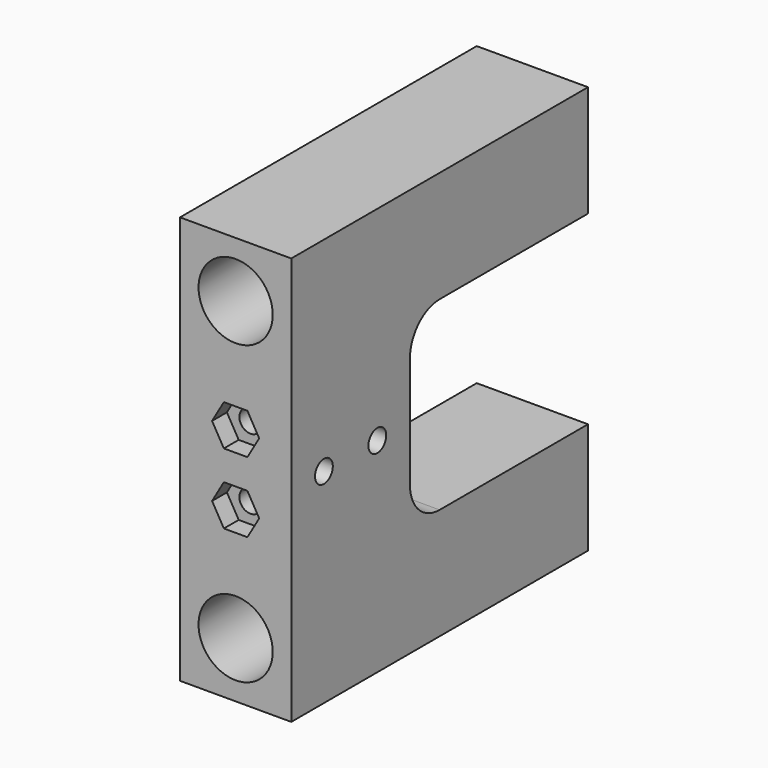
from build123d import *

# Parameters (mm, degrees)
F0_W      = 15
F0_H      = 15
F1_DEPTH  = 50
F2_W      = 15
F2_H      = 55
F3_DEPTH  = 20
F4_R      = 2.75
F5_DEPTH  = 50.001
F6_R      = 5
F7_DEPTH  = 45
F9_DEPTH  = 2.5
F10_R     = 1.5
F11_DEPTH = 12.501
F13_DEPTH = 2.5
F14_R     = 1.5
F15_DEPTH = 25
F16_R     = 5


with BuildPart() as f1:
    # F0 (on Front) → F1 (new body)
    with BuildSketch(Plane.XZ):
        with Locations((0, 20)):
            Rectangle(F0_W, F0_H)
        with Locations((0, -20)):
            Rectangle(F0_W, F0_H)
    extrude(amount=F1_DEPTH)

    # F2 (on face) → F3 (join)
    with BuildSketch(Plane.XZ.offset(50)):
        Rectangle(F2_W, F2_H)
    extrude(amount=-F3_DEPTH)

    # F4 (on face) → F5 (cut, through all)
    with BuildSketch(Plane(origin=(0, 0, 0), x_dir=(-1, 0, 0), z_dir=(0, 1, 0))):
        with Locations((0, 20)):
            Circle(F4_R)
        with Locations((0, -20)):
            Circle(F4_R)
    extrude(amount=-F5_DEPTH, mode=Mode.SUBTRACT)

    # F6 (on face) → F7 (cut)
    with BuildSketch(Plane.XZ.offset(50)):
        with Locations((0, 20)):
            Circle(F6_R)
        with Locations((0, -20)):
            Circle(F6_R)
    extrude(amount=-F7_DEPTH, mode=Mode.SUBTRACT)

    # F8 (on face) → F9 (cut)
    with BuildSketch(Plane(origin=(-7.5, 0, 0), x_dir=(0, -1, 0), z_dir=(-1, 0, 0))):
        Polygon((35.5, -3.175426), (38.25, -1.587713), (38.25, 1.587713), (35.5, 3.175426), (32.75, 1.587713), (32.75, -1.587713), align=None)
        Polygon((47.25, 1.587713), (44.5, 3.175426), (41.75, 1.587713), (41.75, -1.587713), (44.5, -3.175426), (47.25, -1.587713), align=None)
    extrude(amount=-F9_DEPTH, mode=Mode.SUBTRACT)

    # F10 (on face) → F11 (cut, through all)
    with BuildSketch(Plane(origin=(-5, 0, 0), x_dir=(0, -1, 0), z_dir=(-1, 0, 0))):
        with Locations((35.5, 0)):
            Circle(F10_R)
        with Locations((44.5, 0)):
            Circle(F10_R)
    extrude(amount=-F11_DEPTH, mode=Mode.SUBTRACT)

    # F12 (on face) → F13 (cut)
    with BuildSketch(Plane.XZ.offset(50)):
        Polygon((1.587713, 2), (3.175426, 4.75), (1.587713, 7.5), (-1.587713, 7.5), (-3.175426, 4.75), (-1.587713, 2), align=None)
        Polygon((1.587713, -7.5), (3.175426, -4.75), (1.587713, -2), (-1.587713, -2), (-3.175426, -4.75), (-1.587713, -7.5), align=None)
    extrude(amount=-F13_DEPTH, mode=Mode.SUBTRACT)

    # F14 (on face) → F15 (cut)
    with BuildSketch(Plane.XZ.offset(47.5)):
        with Locations((0, 4.75)):
            Circle(F14_R)
        with Locations((0, -4.75)):
            Circle(F14_R)
    extrude(amount=-F15_DEPTH, mode=Mode.SUBTRACT)

    # F16
    f16_edges = [f1.edges().sort_by_distance(p)[0] for p in [
        (0, -30, 12.5),
        (0, -30, -12.5),
    ]]
    fillet(f16_edges, radius=F16_R)


solid = f1.part
